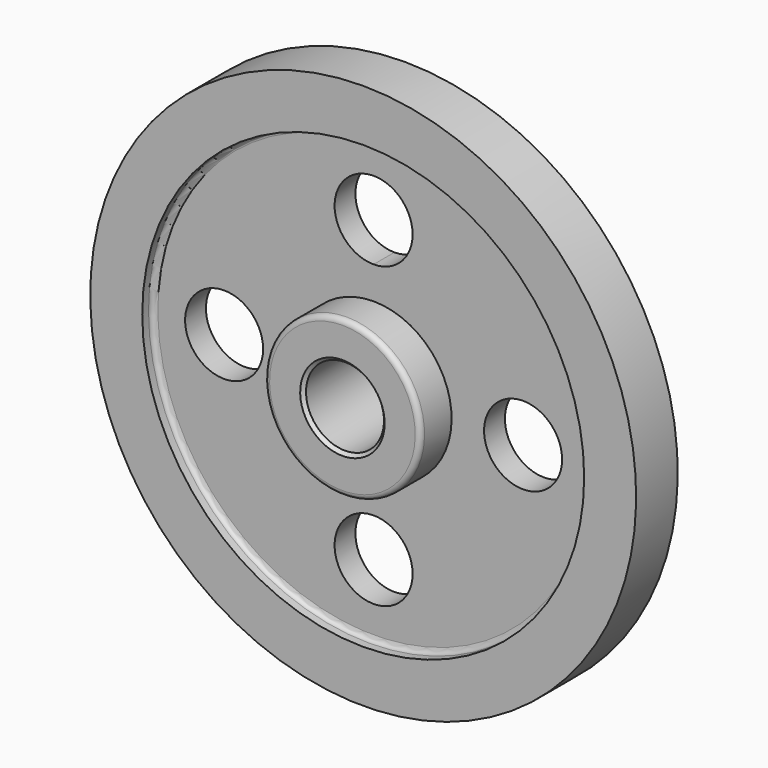
from build123d import *

# Parameters (mm, degrees)
F3_R     = 19.05
F4_DEPTH = 50.8
F5_R     = 2.54
F6_SIZE  = 1.5875


with BuildPart() as f1:
    # F0 (on Right) → F1 (revolve)
    with BuildSketch(Plane.YZ):
        Polygon((-25.4, 19.05), (0, 19.05), (25.4, 19.05), (25.4, 38.1), (6.35, 38.1), (6.35, 107.95), (12.7, 107.95), (12.7, 133.35), (0, 133.35), (-12.7, 133.35), (-12.7, 107.95), (-6.35, 107.95), (-6.35, 38.1), (-25.4, 38.1), align=None)
    revolve(axis=Axis((0, 38.1, 0), (0, 1, 0)))

    # F3 (on offset) → F4 (cut)
    with BuildSketch(Plane.XZ.offset(31.75)):
        with Locations((-73.025, 0)):
            Circle(F3_R)
        with Locations((0, -73.025)):
            Circle(F3_R)
        with Locations((73.025, 0)):
            Circle(F3_R)
        with BuildLine():
            ThreePointArc((0, 53.975), (13.470384, 59.554616), (19.05, 73.025))
            ThreePointArc((19.05, 73.025), (-13.470384, 86.495384), (0, 53.975))
        make_face()
    extrude(amount=-F4_DEPTH, mode=Mode.SUBTRACT)

    # F5
    f5_edges = [f1.edges().sort_by_distance(p)[0] for p in [
        (0, -6.35, -107.95),
        (0, -25.4, -38.1),
        (0, 6.35, -107.95),
        (0, 25.4, -38.1),
    ]]
    fillet(f5_edges, radius=F5_R)

    # F6
    f6_edges = [f1.edges().sort_by_distance(p)[0] for p in [
        (0, -25.4, -19.05),
        (0, 25.4, -19.05),
    ]]
    chamfer(f6_edges, length=F6_SIZE)


solid = f1.part
